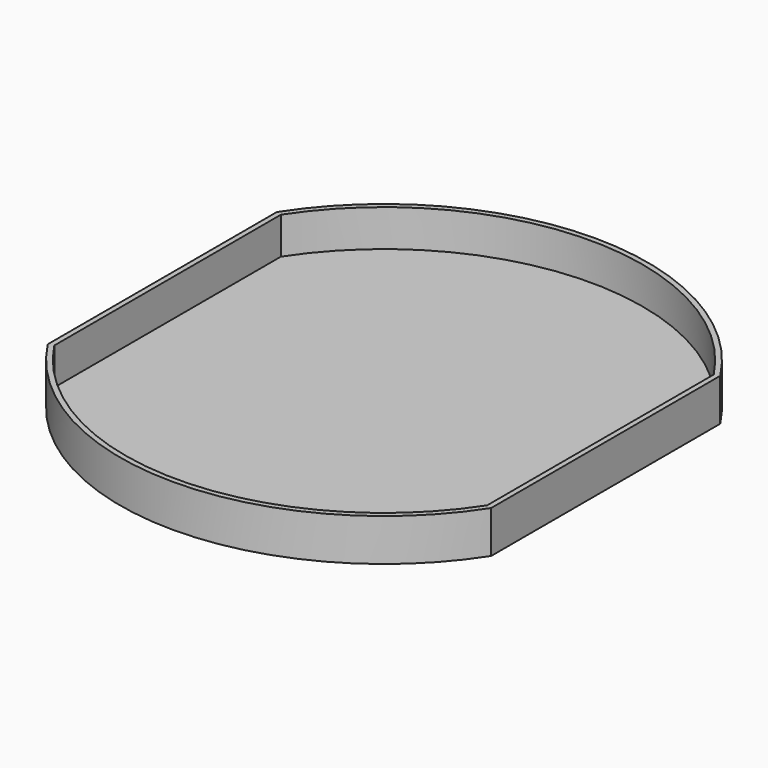
from build123d import *

# Parameters (mm, degrees)
F1_DEPTH = 25.4
F2_T     = -3.175


with BuildPart() as f1:
    # F0 (on Top) → F1 (new body)
    with BuildSketch(Plane.XY):
        with BuildLine():
            Line((-133.35, 86.135591), (-133.35, -86.135591))
            ThreePointArc((-133.35, -86.135591), (0, -158.75), (133.35, -86.135591))
            Line((133.35, -86.135591), (133.35, 86.135591))
            ThreePointArc((133.35, 86.135591), (0, 158.75), (-133.35, 86.135591))
        make_face()
    extrude(amount=-F1_DEPTH)

    # F2
    f2_openings = [f1.faces().sort_by_distance(p)[0] for p in [
        (0, 0, 0),
    ]]
    offset(amount=F2_T, openings=f2_openings)


solid = f1.part
